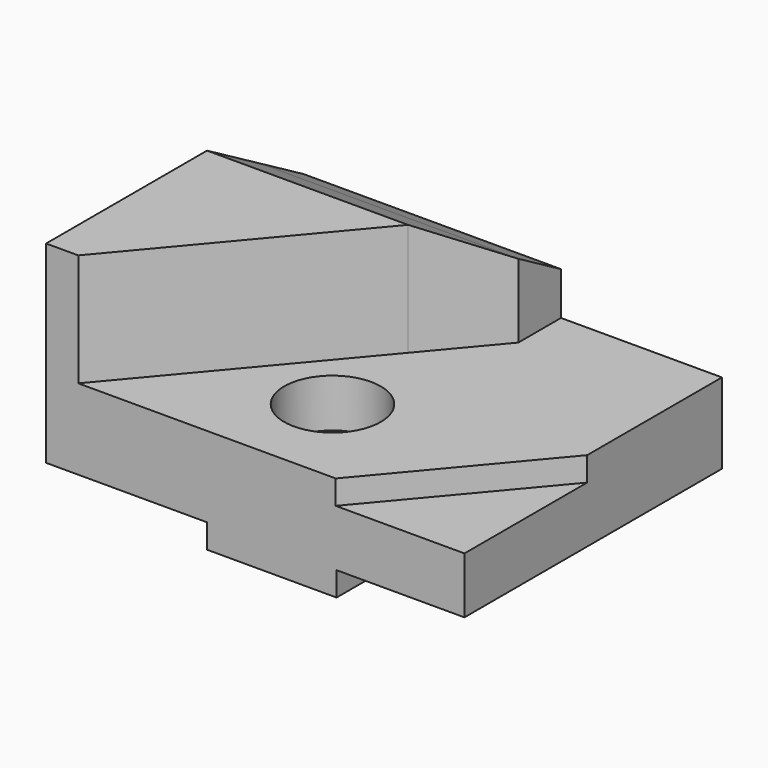
from build123d import *

# Parameters (mm, degrees)
F0_W           = 25.5704697987
F0_H           = 4.7625
F1_DEPTH       = 63.5
F3_DEPTH       = 15.875
F2_W           = 33.3017666123
F2_H           = 23.8125
F4_DEPTH       = 38.1
F6_D           = 12.7
F6_CBORE_D     = 19.05
F6_CBORE_DEPTH = 9.525
F8_DEPTH       = 50.8


with BuildPart() as f1:
    # F0 (on Front) → F1 (new body)
    with BuildSketch(Plane.XZ):
        Polygon((6.35, 15.875), (6.35, 0), (31.75, 0), (57.3204697987, 0), (82.55, 0), (82.55, 11.1125), (57.15, 11.1125), (57.15, 15.875), align=None)
        Polygon((0, 38.1), (0, 0), (6.35, 0), (6.35, 15.875), (6.35, 38.1), align=None)
        with Locations((44.5352348993, -2.38125)):
            Rectangle(F0_W, F0_H)
    extrude(amount=F1_DEPTH)

    # F2 (on Top) → F3 (join)
    with BuildSketch(Plane.XY):
        Polygon((82.55, -33.2294587481), (82.55, 0), (50.8, 0), (50.8, -10.5265528092), (39.6517666123, -23.8125), (6.35, -63.5), (41.275, -63.5), (57.15, -63.5), align=None)
    extrude(amount=F3_DEPTH)

    # F2 (on Top) → F4 (join)
    with BuildSketch(Plane.XY):
        with Locations((23.0008833062, -11.90625)):
            Rectangle(F2_W, F2_H)
        Polygon((50.8, -10.5265528092), (50.8, 0), (39.6517666123, 0), (39.6517666123, -23.8125), align=None)
        Polygon((6.35, -63.5), (39.6517666123, -23.8125), (6.35, -23.8125), align=None)
    extrude(amount=F4_DEPTH)

    # F6 (through all)
    with Locations(Plane.XY.offset(15.875)):
        with Locations((41.275, -44.45)):
            CounterBoreHole(F6_D / 2, F6_CBORE_D / 2, F6_CBORE_DEPTH)

    # F7 (on face) → F8 (cut)
    with BuildSketch(Plane.YZ.offset(50.8)):
        Polygon((-10.5265528092, 30.4293548129), (-10.5265528092, 38.1), (-23.8125, 38.1), align=None)
        Polygon((0, 24.3518467149), (0, 38.1), (-10.5265528092, 38.1), (-10.5265528092, 30.4293548129), align=None)
    extrude(amount=-F8_DEPTH, mode=Mode.SUBTRACT)


solid = f1.part
